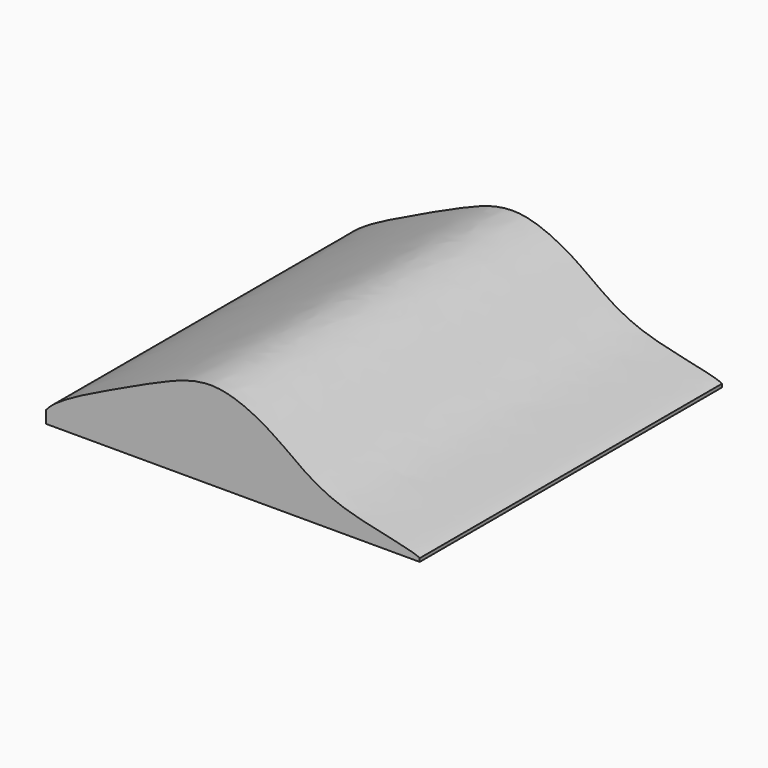
from build123d import *

# Parameters (mm, degrees)
F0_W     = 75.3719210625
F0_H     = 28.678804636
F1_DEPTH = 76.2
F3_DEPTH = 152.4


with BuildPart() as f1:
    # F0 (on Front) → F1 (new body)
    with BuildSketch(Plane.XZ):
        with Locations((37.6859605312, 14.339402318)):
            Rectangle(F0_W, F0_H)
    extrude(amount=F1_DEPTH)

    # F2 (on face) → F3 (cut)
    with BuildSketch(Plane.XZ.offset(76.2)):
        with BuildLine():
            add(Edge.make_bspline(
                [(0, 2.4907540576), (1.7944665335, 4.8193463527), (14.7464456378, 11.1426746478), (22.661682795, 14.8184558338), (34.2935455645, 19.5962508066), (48.2422616035, 12.1262285438), (56.6454902663, 4.1167735085), (73.8547473432, 1.676801172), (75.3719210625, 0.6716934432)],
                knots=[0.0353192169, 0.0353192169, 0.0353192169, 0.0353192169, 0.1246928206, 0.2407010695, 0.3471930693, 0.4678056056, 0.5958743373, 0.6979745549, 0.6979745549, 0.6979745549, 0.6979745549], degree=3))
            Line((75.3719210625, 0.6716934432), (75.3719210625, 28.678804636))
            Line((75.3719210625, 28.678804636), (0, 28.678804636))
            Line((0, 28.678804636), (0, 2.4907540576))
        make_face()
    extrude(amount=-F3_DEPTH, mode=Mode.SUBTRACT)


solid = f1.part
